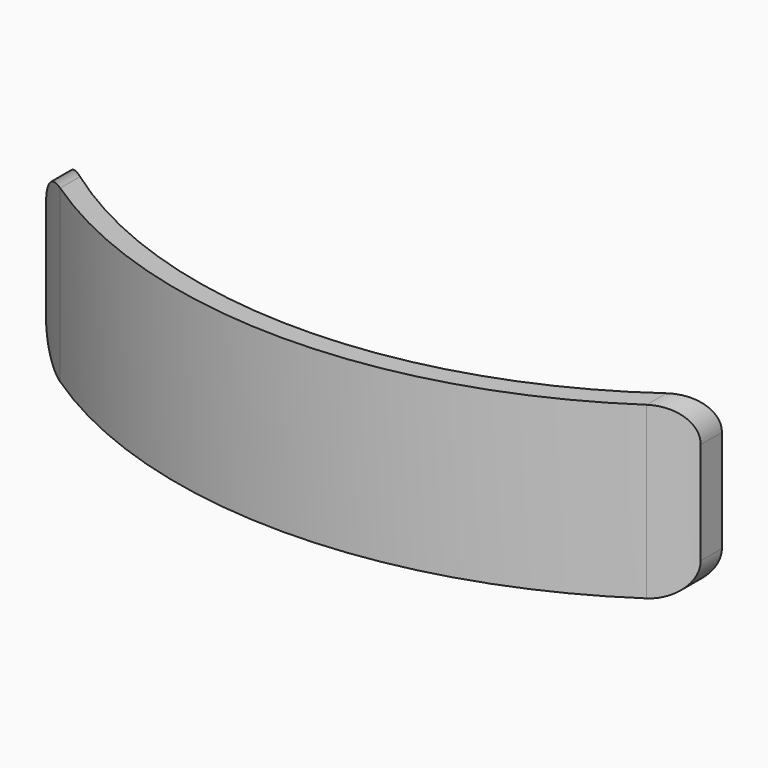
from build123d import *

# Parameters (mm, degrees)
F1_DEPTH = 50.8
F3_DEPTH = 50.8


with BuildPart() as f1:
    # F0 (on Front) → F1 (new body)
    with BuildSketch(Plane.XZ):
        with BuildLine():
            Line((54.61, 15.875), (-54.61, 15.875))
            ThreePointArc((-54.61, 15.875), (-59.1001280605, 14.0151280605), (-60.96, 9.525))
            Line((-60.96, 9.525), (-60.96, -9.525))
            ThreePointArc((-60.96, -9.525), (-59.1001280605, -14.0151280605), (-54.61, -15.875))
            Line((-54.61, -15.875), (54.61, -15.875))
            ThreePointArc((54.61, -15.875), (59.1001280605, -14.0151280605), (60.96, -9.525))
            Line((60.96, -9.525), (60.96, 9.525))
            ThreePointArc((60.96, 9.525), (59.1001280605, 14.0151280605), (54.61, 15.875))
        make_face()
    extrude(amount=F1_DEPTH)

    # F2 (on face) → F3 (cut)
    with BuildSketch(Plane.XY.offset(15.875)):
        with BuildLine():
            ThreePointArc((-54.61, -12.5879445453), (-57.8318948789, -10.3234034087), (-60.96, -7.9309754535))
            Line((-60.96, -7.9309754535), (-60.96, -50.8))
            Line((-60.96, -50.8), (-54.61, -50.8))
            Line((-54.61, -50.8), (-54.61, -12.5879445453))
        make_face()
        with BuildLine():
            ThreePointArc((60.96, -7.9309754535), (57.8318948789, -10.3234034087), (54.61, -12.5879445453))
            Line((54.61, -12.5879445453), (54.61, -50.8))
            Line((54.61, -50.8), (60.96, -50.8))
            Line((60.96, -50.8), (60.96, -7.9309754535))
        make_face()
        with BuildLine():
            Line((-60.96, 0), (-60.96, -2.993899307))
            ThreePointArc((-60.96, -2.993899307), (-57.8381541846, -5.5410580786), (-54.61, -7.9520660967))
            Line((-54.61, -7.9520660967), (-54.61, 0))
            Line((-54.61, 0), (-60.96, 0))
        make_face()
        with BuildLine():
            Line((54.61, 0), (54.61, -7.9520660967))
            ThreePointArc((54.61, -7.9520660967), (57.8381541846, -5.5410580786), (60.96, -2.993899307))
            Line((60.96, -2.993899307), (60.96, 0))
            Line((60.96, 0), (54.61, 0))
        make_face()
        with BuildLine():
            ThreePointArc((54.61, -12.5879445453), (0, -29.2568498781), (-54.61, -12.5879445453))
            Line((-54.61, -12.5879445453), (-54.61, -50.8))
            Line((-54.61, -50.8), (54.61, -50.8))
            Line((54.61, -50.8), (54.61, -12.5879445453))
        make_face()
        with BuildLine():
            Line((-54.61, 0), (-54.61, -7.9520660967))
            ThreePointArc((-54.61, -7.9520660967), (0, -25.4468498781), (54.61, -7.9520660967))
            Line((54.61, -7.9520660967), (54.61, 0))
            Line((54.61, 0), (-54.61, 0))
        make_face()
    extrude(amount=-F3_DEPTH, mode=Mode.SUBTRACT)


solid = f1.part
